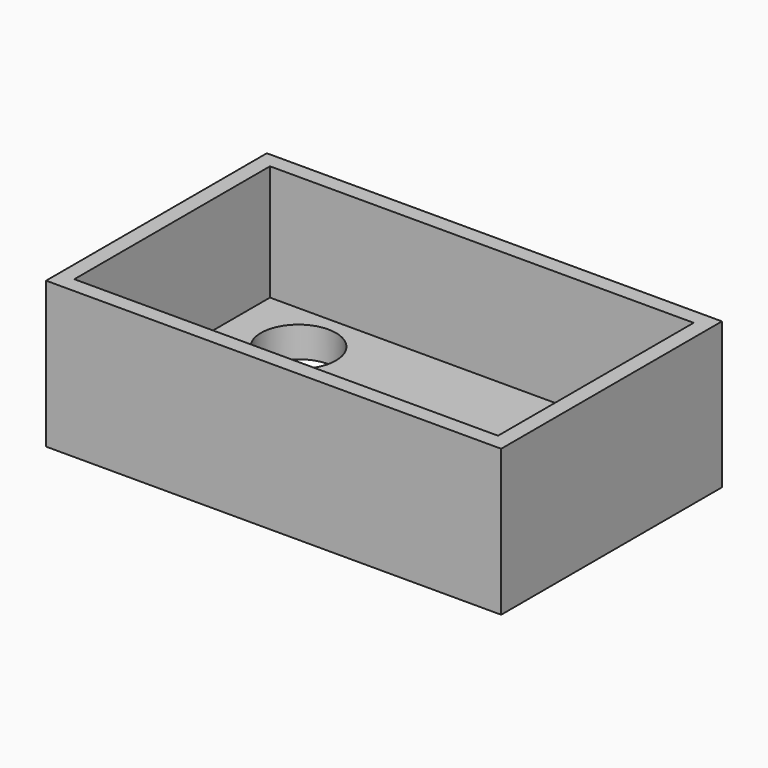
from build123d import *

# Parameters (mm, degrees)
F0_W     = 87.010126
F0_H     = 52.755846
F0_W_2   = 81.010126
F0_H_2   = 46.755846
F1_DEPTH = 27.94
F0_R     = 7.07637
F0_R_2   = 6.824526
F0_R_3   = 7.16417
F0_R_4   = 6.915523
F2_DEPTH = 5.842


with BuildPart() as f1:
    # F0 (on Top) → F1 (new body)
    with BuildSketch(Plane.XY):
        Rectangle(F0_W, F0_H)
        Rectangle(F0_W_2, F0_H_2, mode=Mode.SUBTRACT)
    extrude(amount=F1_DEPTH)

    # F0 (on Top) → F2 (join)
    with BuildSketch(Plane.XY):
        Rectangle(F0_W, F0_H)
        Rectangle(F0_W_2, F0_H_2, mode=Mode.SUBTRACT)
        Rectangle(F0_W_2, F0_H_2)
        with Locations((-27.253406, -13.626703)):
            Circle(F0_R, mode=Mode.SUBTRACT)
        with Locations((27.253406, -13.626703)):
            Circle(F0_R_2, mode=Mode.SUBTRACT)
        with Locations((-27.253406, 13.626703)):
            Circle(F0_R_3, mode=Mode.SUBTRACT)
        with Locations((27.253406, 13.626703)):
            Circle(F0_R_4, mode=Mode.SUBTRACT)
    extrude(amount=F2_DEPTH)


solid = f1.part
